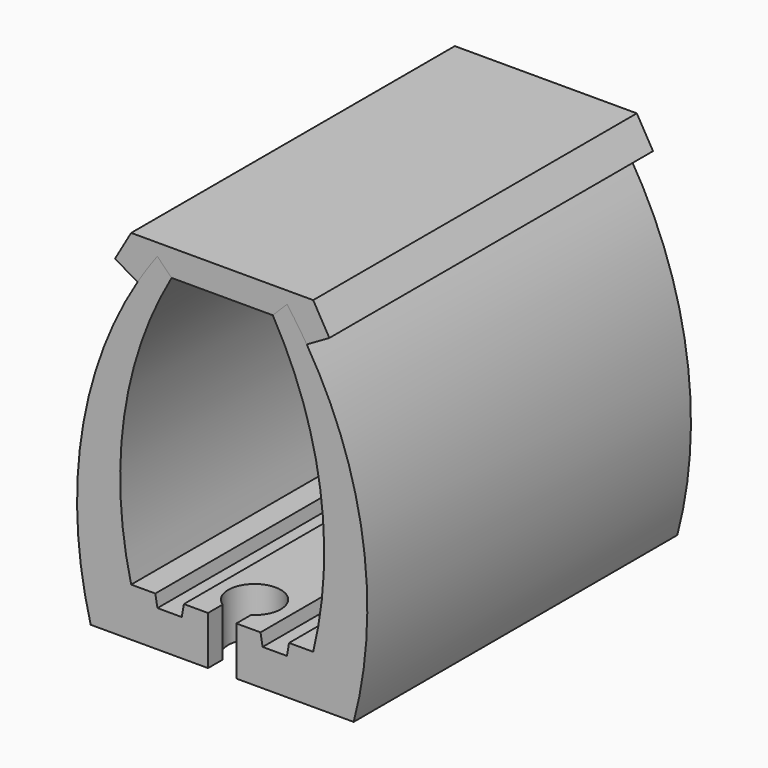
from build123d import *

# Parameters (mm, degrees)
F1_DEPTH = 100
F2_DEPTH = 100
F4_DEPTH = 25


with BuildPart() as f1:
    # F0 (on Front) → F1 (new body)
    with BuildSketch(Plane.XZ):
        with BuildLine():
            Line((-16.528981, 12), (-22.5, 12))
            ThreePointArc((-22.5, 12), (-24.255455, 47.965065), (-12.5, 82))
            Line((-12.5, 82), (-16.035534, 85.535534))
            ThreePointArc((-16.035534, 85.535534), (-18.548312, 82.009344), (-20.906089, 78.377685))
            ThreePointArc((-20.906089, 78.377685), (-34.796514, 40.386058), (-32.5, 0))
            Line((-32.5, 0), (32.5, 0))
            ThreePointArc((32.5, 0), (34.796514, 40.386058), (20.906089, 78.377685))
            ThreePointArc((20.906089, 78.377685), (18.548312, 82.009344), (16.035534, 85.535534))
            Line((16.035534, 85.535534), (12.5, 82))
            ThreePointArc((12.5, 82), (24.255455, 47.965065), (22.5, 12))
            Line((22.5, 12), (16.528981, 12))
            Line((16.528981, 12), (16, 9))
            Line((16, 9), (10, 9))
            Line((10, 9), (9.471019, 12))
            Line((9.471019, 12), (-9.471019, 12))
            Line((-9.471019, 12), (-10, 9))
            Line((-10, 9), (-16, 9))
            Line((-16, 9), (-16.528981, 12))
        make_face()
    extrude(amount=-F1_DEPTH)

    # F3 (on face) → F4 (cut)
    with BuildSketch(Plane(origin=(0, 0, 0), x_dir=(1, 0, 0), z_dir=(0, 0, -1))):
        with BuildLine():
            Line((-3.5, 0), (-3.5, -4.522774))
            ThreePointArc((-3.5, -4.522774), (0, -16.5), (3.5, -4.522774))
            Line((3.5, -4.522774), (3.5, 0))
            Line((3.5, 0), (-3.5, 0))
        make_face()
        with BuildLine():
            Line((-3.5, -95.477226), (-3.5, -100))
            Line((-3.5, -100), (3.5, -100))
            Line((3.5, -100), (3.5, -95.477226))
            ThreePointArc((3.5, -95.477226), (0, -83.5), (-3.5, -95.477226))
        make_face()
    extrude(amount=-F4_DEPTH, mode=Mode.SUBTRACT)


with BuildPart() as f2:
    # F0 (on Front) → F2 (new body)
    with BuildSketch(Plane.XZ):
        with BuildLine():
            Line((-16.035534, 85.535534), (-12.5, 82))
            Line((-12.5, 82), (12.5, 82))
            Line((12.5, 82), (16.035534, 85.535534))
            ThreePointArc((16.035534, 85.535534), (18.548312, 82.009344), (20.906089, 78.377685))
            Line((20.906089, 78.377685), (26.5, 81.607331))
            Line((26.5, 81.607331), (22.5, 88.535534))
            Line((22.5, 88.535534), (-22.5, 88.535534))
            Line((-22.5, 88.535534), (-26.5, 81.607331))
            Line((-26.5, 81.607331), (-20.906089, 78.377685))
            ThreePointArc((-20.906089, 78.377685), (-18.548312, 82.009344), (-16.035534, 85.535534))
        make_face()
    extrude(amount=-F2_DEPTH)


solid = Compound([f1.part, f2.part])
